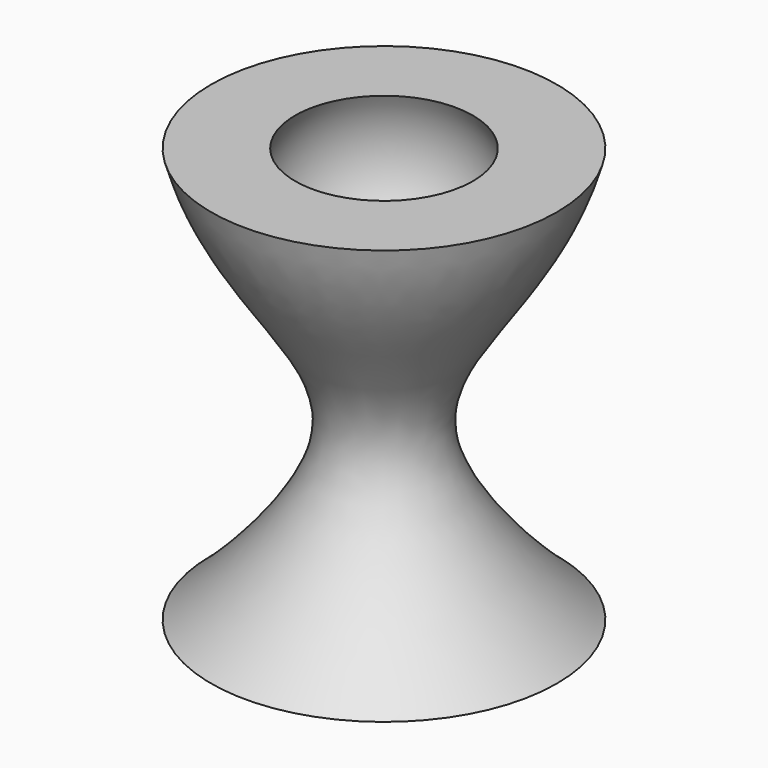
from build123d import *

# Parameters (mm, degrees)
F0_R     = 25.4
F1_DEPTH = 60.96


with BuildPart() as f1:
    # F0 (on Top) → F1 (new body)
    with BuildSketch(Plane.XY):
        Circle(F0_R)
    extrude(amount=F1_DEPTH)

    # F2 (on Front) → F3 (revolve, cut)
    with BuildSketch(Plane.XZ):
        with BuildLine():
            add(Edge.make_bspline(
                [(-25.4, 60.96), (-20.3884669464, 42.7774440407), (6.2940299266, 28.2491347423), (-24.9100290239, 0.1987792057), (-25.4, 0)],
                knots=[0, 0, 0, 0, 0.5481880277, 1, 1, 1, 1], degree=3))
            Line((-25.4, 60.96), (-25.4, 0))
        make_face()
    revolve(axis=Axis((0, 0, 43.6710192575), (0, 0, -1)), mode=Mode.SUBTRACT)

    # F4 (on Front) → F5 (revolve, cut)
    with BuildSketch(Plane.XZ):
        with BuildLine():
            Line((0, 65.2791708708), (0, 36.9683429599))
            ThreePointArc((0, 36.9683429599), (15.5515223742, 52.519865334), (0, 68.0713877082))
            Line((0, 68.0713877082), (0, 65.2791708708))
        make_face()
    revolve(axis=Axis((0, 0, 51.1237569153), (0, 0, -1)), mode=Mode.SUBTRACT)


solid = f1.part
